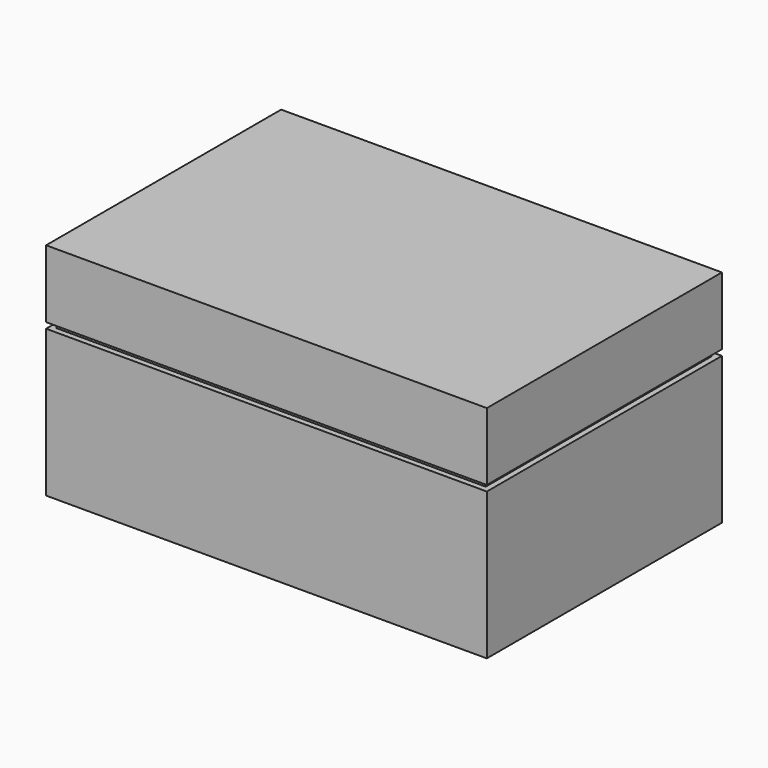
from build123d import *

# Parameters (mm, degrees)
F0_W     = 76.2
F0_H     = 50.8
F1_DEPTH = 38.1
F4_W     = 76.2
F4_H     = 50.8
F4_W_2   = 74.2
F4_H_2   = 48.8
F5_DEPTH = 1
F2_R     = 1.5875
F6_DEPTH = 25.4


with BuildPart() as f1:
    # F0 (on Top) → F1 (new body)
    with BuildSketch(Plane.XY):
        Rectangle(F0_W, F0_H)
    extrude(amount=F1_DEPTH)

    # F4 (on offset) → F5 (cut)
    with BuildSketch(Plane.XY.offset(25.4)):
        Rectangle(F4_W, F4_H)
        Rectangle(F4_W_2, F4_H_2, mode=Mode.SUBTRACT)
    extrude(amount=F5_DEPTH, mode=Mode.SUBTRACT)

    # F2 (on face) → F6 (cut)
    with BuildSketch(Plane(origin=(-38.1, 0, 0), x_dir=(0, -1, 0), z_dir=(-1, 0, 0))):
        with Locations((-12.7, 19.05)):
            Circle(F2_R)
        with Locations((12.7, 19.05)):
            Circle(F2_R)
    extrude(amount=-F6_DEPTH, mode=Mode.SUBTRACT)


solid = f1.part
